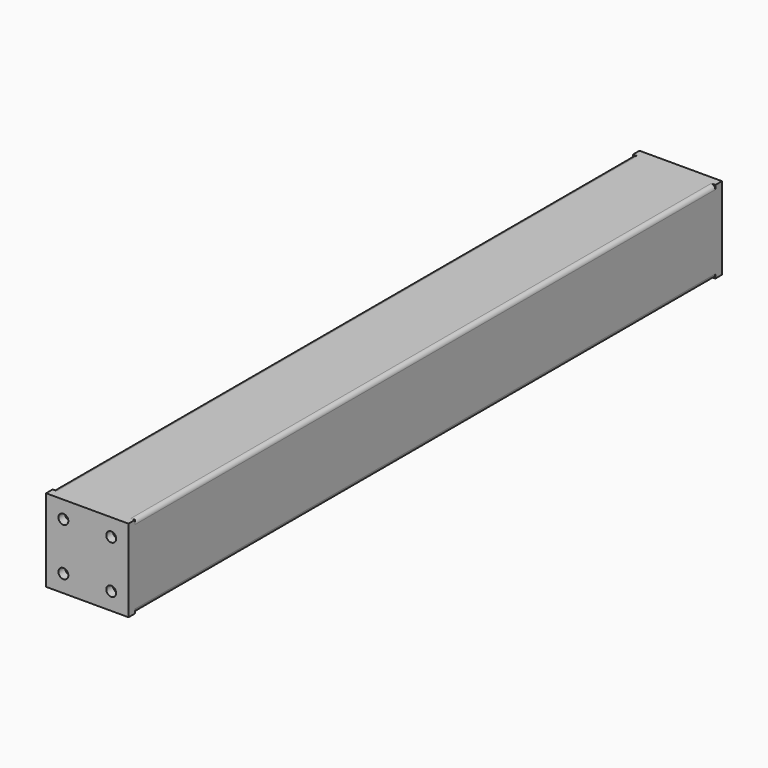
from build123d import *

# Parameters (mm, degrees)
F1_DEPTH  = 900
F3_W      = 100
F3_H      = 100
F4_DEPTH  = 10
F6_W      = 100
F6_H      = 100
F7_DEPTH  = 10
F8_R      = 6
F9_DEPTH  = 10
F10_R     = 6
F11_DEPTH = 10


with BuildPart() as f1:
    # F0 (on Front) → F1 (new body)
    with BuildSketch(Plane.XZ):
        with BuildLine():
            ThreePointArc((50, 45), (48.535534, 48.535534), (45, 50))
            Line((45, 50), (-45, 50))
            ThreePointArc((-45, 50), (-48.535534, 48.535534), (-50, 45))
            Line((-50, 45), (-50, -45))
            ThreePointArc((-50, -45), (-48.535534, -48.535534), (-45, -50))
            Line((-45, -50), (45, -50))
            ThreePointArc((45, -50), (48.535534, -48.535534), (50, -45))
            Line((50, -45), (50, 45))
        make_face()
        with BuildLine():
            ThreePointArc((-47, 45), (-46.414214, 46.414214), (-45, 47))
            Line((-45, 47), (45, 47))
            ThreePointArc((45, 47), (46.414214, 46.414214), (47, 45))
            Line((47, 45), (47, -45))
            ThreePointArc((47, -45), (46.414214, -46.414214), (45, -47))
            Line((45, -47), (-45, -47))
            ThreePointArc((-45, -47), (-46.414214, -46.414214), (-47, -45))
            Line((-47, -45), (-47, 45))
        make_face(mode=Mode.SUBTRACT)
    extrude(amount=-F1_DEPTH)

    # F3 (on offset) → F4 (join)
    with BuildSketch(Plane.XZ):
        Rectangle(F3_W, F3_H)
    extrude(amount=-F4_DEPTH)

    # F6 (on offset) → F7 (join)
    with BuildSketch(Plane(origin=(0, 900, 0), x_dir=(1, 0, 0), z_dir=(0, 1, 0))):
        Rectangle(F6_W, F6_H)
    extrude(amount=-F7_DEPTH)

    # F8 (on face) → F9 (cut, through all)
    with BuildSketch(Plane(origin=(0, 900, 0), x_dir=(-1, 0, 0), z_dir=(0, 1, 0))):
        with Locations((-29, 29)):
            Circle(F8_R)
        with Locations((29, 29)):
            Circle(F8_R)
        with Locations((29, -29)):
            Circle(F8_R)
        with Locations((-29, -29)):
            Circle(F8_R)
    extrude(amount=-F9_DEPTH, mode=Mode.SUBTRACT)

    # F10 (on face) → F11 (cut, through all)
    with BuildSketch(Plane.XZ):
        with Locations((-29, 29)):
            Circle(F10_R)
        with Locations((29, 29)):
            Circle(F10_R)
        with Locations((29, -29)):
            Circle(F10_R)
        with Locations((-29, -29)):
            Circle(F10_R)
    extrude(amount=-F11_DEPTH, mode=Mode.SUBTRACT)


solid = f1.part
